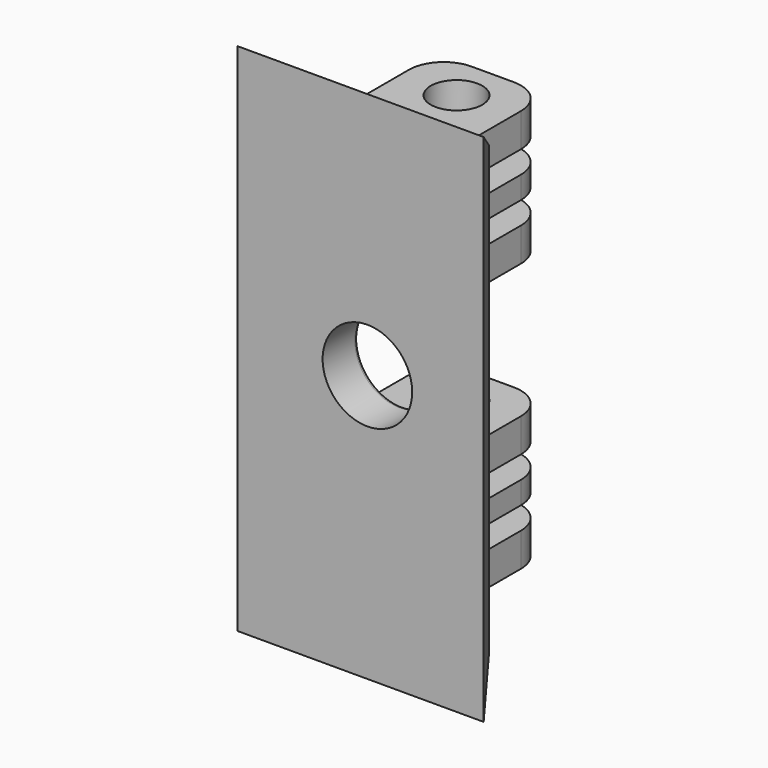
from build123d import *

# Parameters (mm, degrees)
CYLINDER_R          = 2
CYLINDER_DEPTH      = 10
CYLINDER_ROLL_ANGLE = 90
BOX004_W            = 10
BOX004_H            = 10
BOX004_DEPTH        = 1
BOX002_W            = 10
BOX002_H            = 10
BOX002_DEPTH        = 1
SKETCH003_R         = 1.15
PAD_DEPTH           = 3
BOX375_W            = 10
BOX375_H            = 10
BOX375_DEPTH        = 1
BOX374_W            = 10
BOX374_H            = 10
BOX374_DEPTH        = 1
SKETCH015_R         = 1.15
PAD001_DEPTH        = 3
SKETCH018_W         = 11
SKETCH018_H         = 23
SKETCH017_W         = 8
SKETCH017_H         = 20
FILLET_R            = 0.2


with BuildPart() as cilindro:
    # Cylinder → Cylinder (new body)
    with BuildSketch(Plane.XY):
        Circle(CYLINDER_R)
    extrude(amount=CYLINDER_DEPTH)


with BuildPart() as cilindro_1:
    # Cylinder roll: moved
    add(cilindro.part.rotate(Axis((0, 0, 0), (1, 0, 0)), CYLINDER_ROLL_ANGLE))


with BuildPart() as cilindro_2:
    # Cylinder placement: moved
    add(cilindro_1.part.moved(Location((-233.5, 0, 6))))


with BuildPart() as cubo004:
    # Box004 → Box004 (new body)
    with BuildSketch(Plane(origin=(-6, 0.7, 0.5), x_dir=(1, 0, 0), z_dir=(0, 0, 1))):
        with Locations((5, 5)):
            Rectangle(BOX004_W, BOX004_H)
    extrude(amount=BOX004_DEPTH)


with BuildPart() as cubo002:
    # Box002 → Box002 (new body)
    with BuildSketch(Plane(origin=(-5, 0.7, -1.5), x_dir=(1, 0, 0), z_dir=(0, 0, 1))):
        with Locations((5, 5)):
            Rectangle(BOX002_W, BOX002_H)
    extrude(amount=BOX002_DEPTH)


with BuildPart() as obj1:
    # Sketch003 → Pad (new body, symmetric)
    with BuildSketch(Plane.XY):
        with BuildLine():
            Line((-0.94599, 5), (0.94599, 5))
            ThreePointArc((2.5, 3.44599), (2.044841, 4.544841), (0.94599, 5))
            Line((2.5, 3.44599), (2.5, 0))
            Line((2.5, 0), (-2.5, 0))
            Line((-2.5, 0), (-2.5, 3.44599))
            ThreePointArc((-0.94599, 5), (-2.044841, 4.544841), (-2.5, 3.44599))
        make_face()
        with Locations((0, 2.97603)):
            Circle(SKETCH003_R, mode=Mode.SUBTRACT)
    extrude(amount=PAD_DEPTH, both=True)

    # Cut004: cut Cubo002
    add(cubo002.part, mode=Mode.SUBTRACT)

    # Cut005: cut Cubo004
    add(cubo004.part, mode=Mode.SUBTRACT)


with BuildPart() as obj1_1:
    # Cut005 placement: moved
    add(obj1.part.moved(Location((-233.5, -6, 0))))


with BuildPart() as cubo374:
    # Box375 → Box375 (new body)
    with BuildSketch(Plane(origin=(-6, 0.7, 0.5), x_dir=(1, 0, 0), z_dir=(0, 0, 1))):
        with Locations((5, 5)):
            Rectangle(BOX375_W, BOX375_H)
    extrude(amount=BOX375_DEPTH)


with BuildPart() as cubo373:
    # Box374 → Box374 (new body)
    with BuildSketch(Plane(origin=(-5, 0.7, -1.5), x_dir=(1, 0, 0), z_dir=(0, 0, 1))):
        with Locations((5, 5)):
            Rectangle(BOX374_W, BOX374_H)
    extrude(amount=BOX374_DEPTH)


with BuildPart() as obj2:
    # Sketch015 → Pad001 (new body, symmetric)
    with BuildSketch(Plane.XY):
        with BuildLine():
            Line((-0.94599, 5), (0.94599, 5))
            ThreePointArc((2.5, 3.44599), (2.044841, 4.544841), (0.94599, 5))
            Line((2.5, 3.44599), (2.5, 0))
            Line((2.5, 0), (-2.5, 0))
            Line((-2.5, 0), (-2.5, 3.44599))
            ThreePointArc((-0.94599, 5), (-2.044841, 4.544841), (-2.5, 3.44599))
        make_face()
        with Locations((0, 2.97603)):
            Circle(SKETCH015_R, mode=Mode.SUBTRACT)
    extrude(amount=PAD001_DEPTH, both=True)

    # Cut103: cut Cubo373
    add(cubo373.part, mode=Mode.SUBTRACT)

    # Cut104: cut Cubo374
    add(cubo374.part, mode=Mode.SUBTRACT)


with BuildPart() as obj2_1:
    # Cut104 placement: moved
    add(obj2.part.moved(Location((-233.5, -6, 12))))


with BuildPart() as obj3:
    # Sketch018 → Loft section 0
    with BuildSketch(Plane(origin=(0, -9, -0.5), x_dir=(1, 0, 0), z_dir=(0, -1, 0))):
        with Locations((-234.807047, 6.068771)):
            Rectangle(SKETCH018_W, SKETCH018_H)
    # Sketch017 → Loft section 1
    with BuildSketch(Plane.XZ.offset(7)):
        with Locations((-234.670651, 5.48801)):
            Rectangle(SKETCH017_W, SKETCH017_H)
    loft()


with BuildPart() as obj3_1:
    # Loft placement: moved
    add(obj3.part.moved(Location((1, 1, 0))))

    # Fusion067: union obj1, obj2
    add(obj1_1.part)
    add(obj2_1.part)

    # Cut105: cut Cilindro
    add(cilindro_2.part, mode=Mode.SUBTRACT)

    # Fillet
    fillet_edges = [obj3_1.edges().sort_by_distance(p)[0] for p in [
        (-235.5, -6, 6),
    ]]
    fillet(fillet_edges, radius=FILLET_R)


solid = obj3_1.part
